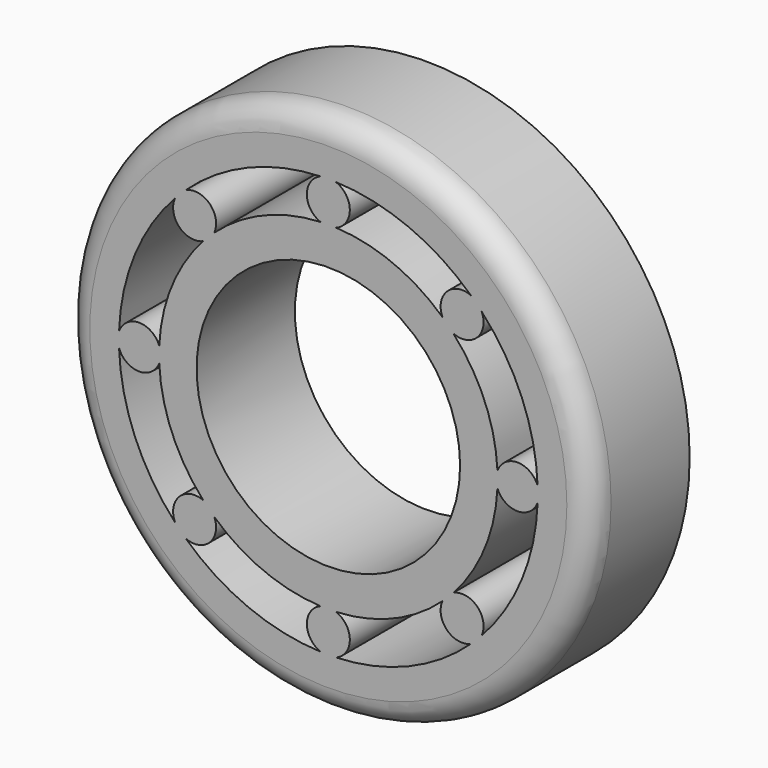
from build123d import *

# Parameters (mm, degrees)
F0_R     = 54.402648
F0_R_2   = 43.302675
F1_DEPTH = 25.4
F2_R     = 35.004795
F2_R_2   = 27.243886
F3_DEPTH = 25.4
F4_R     = 4.445
F5_DEPTH = 25.4
F6_R     = 5.08


with BuildPart() as f1:
    # F0 (on Front) → F1 (new body)
    with BuildSketch(Plane.XZ):
        Circle(F0_R)
        Circle(F0_R_2, mode=Mode.SUBTRACT)
    extrude(amount=F1_DEPTH)



with BuildPart() as f3:
    # F2 (on Front) → F3 (new body)
    with BuildSketch(Plane.XZ):
        Circle(F2_R)
        Circle(F2_R_2, mode=Mode.SUBTRACT)
    extrude(amount=F3_DEPTH)


with BuildPart() as f1_1:
    add(f1.part)

    add(f3.part)  # F5 merges F3
    # F4 (on Front) → F5 (join)
    with BuildSketch(Plane.XZ):
        with Locations((0, 39.111675)):
            Circle(F4_R)
        with Locations((-27.65613, 27.65613)):
            Circle(F4_R)
        with Locations((-39.111675, 0)):
            Circle(F4_R)
        with Locations((-27.65613, -27.65613)):
            Circle(F4_R)
        with Locations((0, -39.111675)):
            Circle(F4_R)
        with Locations((27.65613, -27.65613)):
            Circle(F4_R)
        with Locations((39.111675, 0)):
            Circle(F4_R)
        with Locations((27.65613, 27.65613)):
            Circle(F4_R)
    extrude(amount=F5_DEPTH)

    # F6
    f6_edges = [f1_1.edges().sort_by_distance(p)[0] for p in [
        (-54.402648, -25.4, 0),
    ]]
    fillet(f6_edges, radius=F6_R)


solid = f1_1.part
